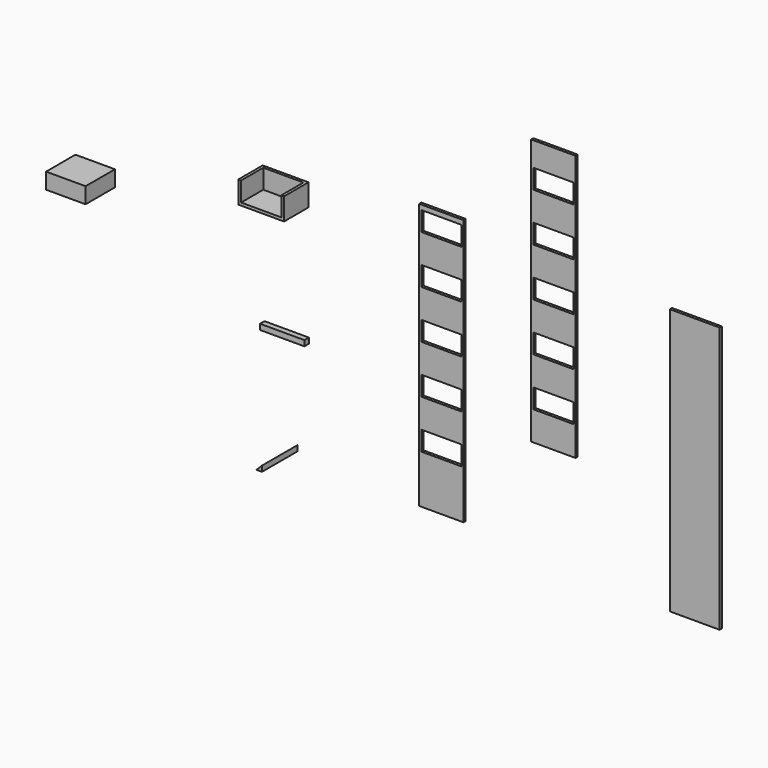
from build123d import *

# Parameters (mm, degrees)
F0_W      = 203.2
F0_H      = 1219.2
F0_W_2    = 184.15
F0_H_2    = 88.9
F1_DEPTH  = 12.7
F2_W      = 203.2
F2_H      = 1219.2
F2_W_2    = 184.15
F2_H_2    = 88.9
F3_DEPTH  = 12.7
F4_W      = 209.55
F4_H      = 101.6
F5_DEPTH  = 139.7
F6_W      = 184.15
F6_H      = 127
F7_DEPTH  = 88.9
F8_W      = 203.2
F8_H      = 25.4
F9_DEPTH  = 25.4
F10_W     = 180.975
F10_H     = 73.025
F11_DEPTH = 168.275
F12_W     = 228.6
F12_H     = 1219.2
F13_DEPTH = 12.7
F15_DEPTH = 203.2


with BuildPart() as f1:
    # F0 (on Front) → F1 (new body)
    with BuildSketch(Plane.XZ):
        with Locations((-101.6, 609.6)):
            Rectangle(F0_W, F0_H)
        with Locations((-101.6, 266.954)):
            Rectangle(F0_W_2, F0_H_2, mode=Mode.SUBTRACT)
        with Locations((-101.6, 488.442)):
            Rectangle(F0_W_2, F0_H_2, mode=Mode.SUBTRACT)
        with Locations((-101.6, 709.93)):
            Rectangle(F0_W_2, F0_H_2, mode=Mode.SUBTRACT)
        with Locations((-101.6, 931.418)):
            Rectangle(F0_W_2, F0_H_2, mode=Mode.SUBTRACT)
        with Locations((-101.6, 1152.906)):
            Rectangle(F0_W_2, F0_H_2, mode=Mode.SUBTRACT)
    extrude(amount=F1_DEPTH)


with BuildPart() as f3:
    # F2 (on Front) → F3 (new body)
    with BuildSketch(Plane.XZ):
        with Locations((411.681328, 1036.164237)):
            Rectangle(F2_W, F2_H)
        with Locations((411.681328, 604.618237)):
            Rectangle(F2_W_2, F2_H_2, mode=Mode.SUBTRACT)
        with Locations((411.681328, 826.106237)):
            Rectangle(F2_W_2, F2_H_2, mode=Mode.SUBTRACT)
        with Locations((411.681328, 1047.594237)):
            Rectangle(F2_W_2, F2_H_2, mode=Mode.SUBTRACT)
        with Locations((411.681328, 1269.082237)):
            Rectangle(F2_W_2, F2_H_2, mode=Mode.SUBTRACT)
        with Locations((411.681328, 1490.570237)):
            Rectangle(F2_W_2, F2_H_2, mode=Mode.SUBTRACT)
    extrude(amount=F3_DEPTH)


with BuildPart() as f5:
    # F4 (on Front) → F5 (new body)
    with BuildSketch(Plane.XZ):
        with Locations((-825.785748, 1081.697557)):
            Rectangle(F4_W, F4_H)
    extrude(amount=F5_DEPTH)

    # F6 (on face) → F7 (cut)
    with BuildSketch(Plane.XY.offset(1132.497557)):
        with Locations((-825.785748, -76.2)):
            Rectangle(F6_W, F6_H)
    extrude(amount=-F7_DEPTH, mode=Mode.SUBTRACT)


with BuildPart() as f9:
    # F8 (on Front) → F9 (new body)
    with BuildSketch(Plane.XZ):
        with Locations((-820.838779, 493.960952)):
            Rectangle(F8_W, F8_H)
    extrude(amount=F9_DEPTH)


with BuildPart() as f11:
    # F10 (on Front) → F11 (new body)
    with BuildSketch(Plane.XZ):
        with Locations((-1698.288881, 860.121931)):
            Rectangle(F10_W, F10_H)
    extrude(amount=F11_DEPTH)


with BuildPart() as f13:
    # F12 (on Front) → F13 (new body)
    with BuildSketch(Plane.XZ):
        with Locations((1059.763619, 557.78036)):
            Rectangle(F12_W, F12_H)
    extrude(amount=F13_DEPTH)


with BuildPart() as f15:
    # F14 (on Front) → F15 (new body)
    with BuildSketch(Plane.XZ):
        Polygon((-771.356804, 30.289914), (-771.356804, 55.689914), (-796.756804, 30.289914), align=None)
    extrude(amount=F15_DEPTH)


solid = Compound([f1.part, f3.part, f5.part, f9.part, f11.part, f13.part, f15.part])
